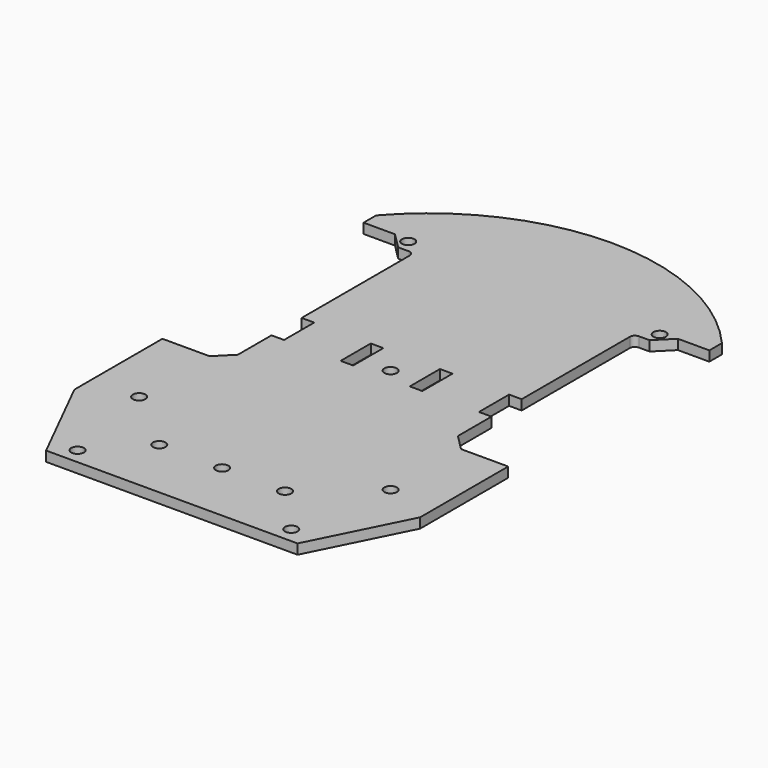
from build123d import *

# Parameters (mm, degrees)
F0_R     = 2
F0_W     = 4
F0_H     = 11.9888
F1_DEPTH = 3.175


with BuildPart() as f1:
    # F0 (on Top) → F1 (new body)
    with BuildSketch(Plane.XY):
        with BuildLine():
            Line((-55, -57.5), (-40, -87.5))
            Line((-40, -87.5), (40, -87.5))
            Line((40, -87.5), (55, -57.5))
            Line((55, -57.5), (55, -22.5))
            Line((55, -22.5), (40, -22.5))
            Line((40, -22.5), (35, -17.5))
            Line((35, -17.5), (35, -4.123451))
            Line((35, -4.123451), (31, -4.123451))
            Line((31, -4.123451), (31, 7.865349))
            Line((31, 7.865349), (35, 7.865349))
            Line((35, 7.865349), (35, 50.876549))
            ThreePointArc((35, 50.876549), (35.475498, 52.024502), (36.623451, 52.5))
            Line((36.623451, 52.5), (40, 52.5))
            Line((40, 52.5), (45, 57.5))
            Line((45, 57.5), (55, 57.5))
            Line((55, 57.5), (55, 62.5))
            ThreePointArc((55, 62.5), (0, 87.5), (-55, 62.5))
            Line((-55, 62.5), (-55, 57.5))
            Line((-55, 57.5), (-45, 57.5))
            Line((-45, 57.5), (-40, 52.5))
            Line((-40, 52.5), (-36.623451, 52.5))
            ThreePointArc((-36.623451, 52.5), (-35.475498, 52.024502), (-35, 50.876549))
            Line((-35, 50.876549), (-35, 7.865349))
            Line((-35, 7.865349), (-31, 7.865349))
            Line((-31, 7.865349), (-31, -4.123451))
            Line((-31, -4.123451), (-35, -4.123451))
            Line((-35, -4.123451), (-35, -17.5))
            Line((-35, -17.5), (-40, -22.5))
            Line((-40, -22.5), (-55, -22.5))
            Line((-55, -22.5), (-55, -57.5))
        make_face()
        with Locations((-34, -82.5)):
            Circle(F0_R, mode=Mode.SUBTRACT)
        with Locations((-40, -50.5)):
            Circle(F0_R, mode=Mode.SUBTRACT)
        with Locations((-20, -67.5)):
            Circle(F0_R, mode=Mode.SUBTRACT)
        with Locations((0, -67.5)):
            Circle(F0_R, mode=Mode.SUBTRACT)
        with Locations((20, -67.5)):
            Circle(F0_R, mode=Mode.SUBTRACT)
        with Locations((34, -82.5)):
            Circle(F0_R, mode=Mode.SUBTRACT)
        with Locations((40, -50.5)):
            Circle(F0_R, mode=Mode.SUBTRACT)
        with Locations((0, -0.5)):
            Circle(F0_R, mode=Mode.SUBTRACT)
        with Locations((-11, 1.870949)):
            Rectangle(F0_W, F0_H, mode=Mode.SUBTRACT)
        with Locations((-40, 56.5)):
            Circle(F0_R, mode=Mode.SUBTRACT)
        with Locations((11, 1.870949)):
            Rectangle(F0_W, F0_H, mode=Mode.SUBTRACT)
        with Locations((40, 56.5)):
            Circle(F0_R, mode=Mode.SUBTRACT)
    extrude(amount=F1_DEPTH)


solid = f1.part
